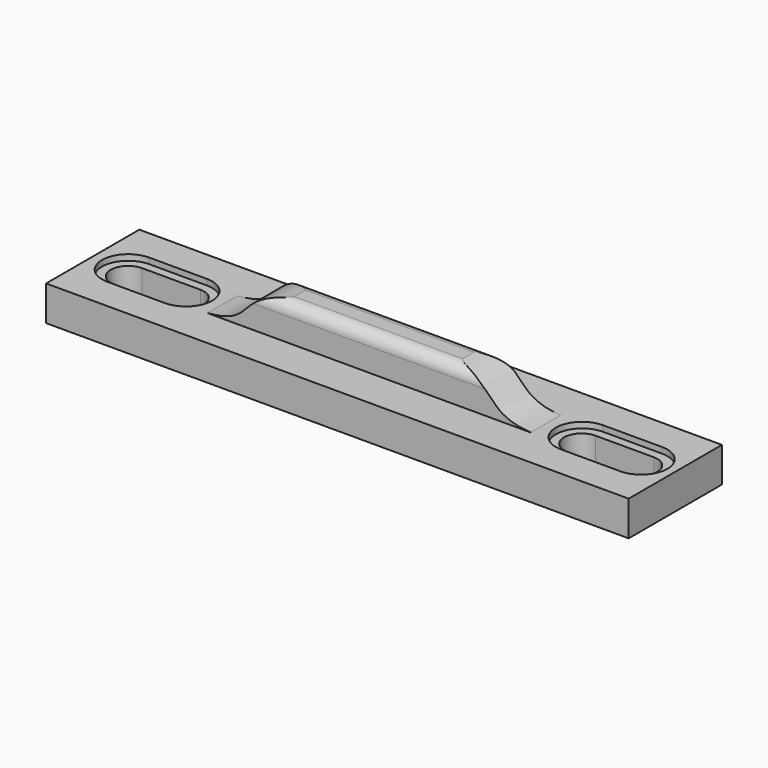
from build123d import *

# Parameters (mm, degrees)
SKETCH_W        = 50
SKETCH_H        = 10
PAD_DEPTH       = 3
SKETCH001_W     = 27.748524
SKETCH001_H     = 3.203372
PAD001_DEPTH    = 3
POCKET_DEPTH    = 3.5
FILLET_R        = 1
FILLET001_R     = 1
POCKET001_DEPTH = 0.5


with BuildPart() as part:
    # Sketch → Pad (new body)
    with BuildSketch(Plane.XY):
        Rectangle(SKETCH_W, SKETCH_H)
        with BuildLine():
            ThreePointArc((-21.956885, 1.5), (-23.456885, 0), (-21.956885, -1.5))
            Line((-21.956885, -1.5), (-16.956885, -1.5))
            ThreePointArc((-16.956885, -1.5), (-15.456885, 0), (-16.956885, 1.5))
            Line((-21.956885, 1.5), (-16.956885, 1.5))
        make_face(mode=Mode.SUBTRACT)
        with BuildLine():
            Line((16.956885, 1.5), (21.956885, 1.5))
            ThreePointArc((21.956885, -1.5), (23.456885, 0), (21.956885, 1.5))
            Line((16.956885, -1.5), (21.956885, -1.5))
            ThreePointArc((16.956885, 1.5), (15.456885, 0), (16.956885, -1.5))
        make_face(mode=Mode.SUBTRACT)
    extrude(amount=PAD_DEPTH)

    # Sketch001 (on DatumPlane) → Pad001 (join)
    with BuildSketch(Plane.XY.offset(3)):
        Rectangle(SKETCH001_W, SKETCH001_H)
    extrude(amount=PAD001_DEPTH)

    # Sketch002 (on DatumPlane) → Pocket (cut)
    with BuildSketch(Plane.XZ.offset(1.601686)):
        with BuildLine():
            add(Edge.make_bspline(
                [(-13.874262, 3), (-9.664405, 3.309267), (-11.317866, 5.566879), (-7.216269, 6)],
                knots=[0, 0, 0, 0, 1, 1, 1, 1], degree=3))
            Line((-7.216269, 6), (-7.216269, 6.383823))
            Line((-7.216269, 6.383823), (-14.222651, 6.336395))
            Line((-14.222651, 6.336395), (-14.222651, 3.364603))
            Line((-14.222651, 3.364603), (-13.874262, 3))
        make_face()
    pocket = extrude(amount=-POCKET_DEPTH, mode=Mode.SUBTRACT)

    # Fillet
    fillet_edges = [part.edges().sort_by_distance(p)[0] for p in [
        (3.328997, -1.601686, 6),
    ]]
    fillet(fillet_edges, radius=FILLET_R)

    # Fillet001
    fillet001_edges = [part.edges().sort_by_distance(p)[0] for p in [
        (3.328997, 1.601686, 6),
    ]]
    fillet(fillet001_edges, radius=FILLET001_R)

    # Mirrored: Pocket across Sketch002 V_Axis
    add(pocket.mirror(Plane(origin=(0, -1.601686, 0), x_dir=(0, -1, 0), z_dir=(1, 0, 0))), mode=Mode.SUBTRACT)

    # Sketch003 (on DatumPlane) → Pocket001 (cut)
    with BuildSketch(Plane.XY.offset(3)):
        with BuildLine():
            ThreePointArc((-21.948886, 2.25), (-24.198886, 0), (-21.948886, -2.25))
            Line((-21.948886, -2.25), (-16.996035, -2.25))
            ThreePointArc((-16.996035, -2.25), (-14.746035, 0), (-16.996035, 2.25))
            Line((-21.948886, 2.25), (-16.996035, 2.25))
        make_face()
        with BuildLine():
            ThreePointArc((16.996035, 2.25), (14.746035, 0), (16.996035, -2.25))
            Line((16.996035, -2.25), (22.07169, -2.25))
            ThreePointArc((22.07169, -2.25), (24.32169, 0), (22.07169, 2.25))
            Line((16.996035, 2.25), (22.07169, 2.25))
        make_face()
    extrude(amount=-POCKET001_DEPTH, mode=Mode.SUBTRACT)


solid = part.part
